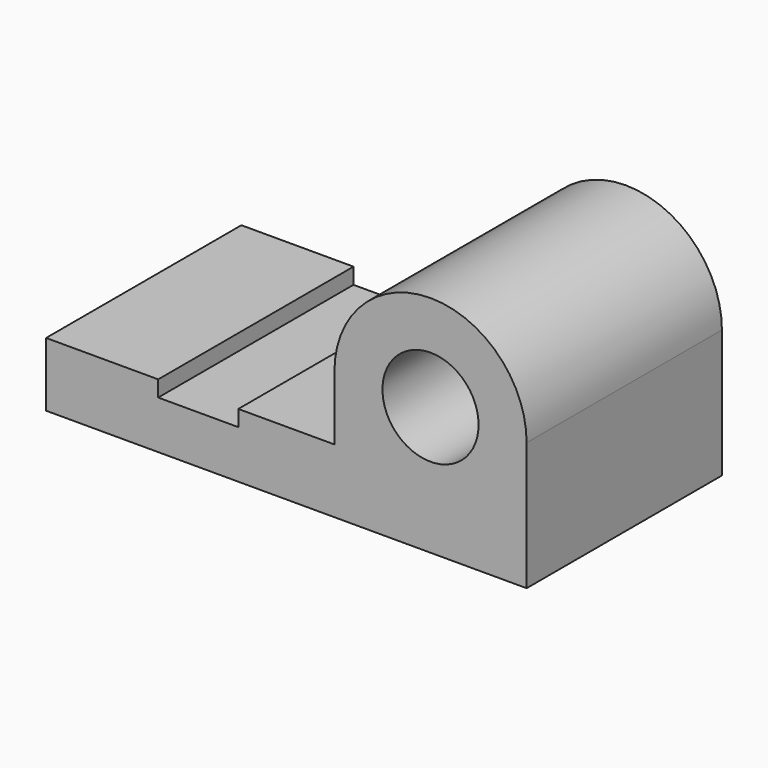
from build123d import *

# Parameters (mm, degrees)
F0_R     = 15
F1_DEPTH = 76.2


with BuildPart() as f1:
    # F0 (on Front) → F1 (new body)
    with BuildSketch(Plane.XZ):
        with BuildLine():
            Line((0, 20), (0, 0))
            Line((0, 0), (150, 0))
            Line((150, 0), (150, 40))
            ThreePointArc((150, 40), (120, 70), (90, 40))
            Line((90, 40), (90, 20))
            Line((90, 20), (60, 20))
            Line((60, 20), (60, 15))
            Line((60, 15), (35, 15))
            Line((35, 15), (35, 20))
            Line((35, 20), (0, 20))
        make_face()
        with Locations((120, 40)):
            Circle(F0_R, mode=Mode.SUBTRACT)
    extrude(amount=F1_DEPTH)


solid = f1.part
